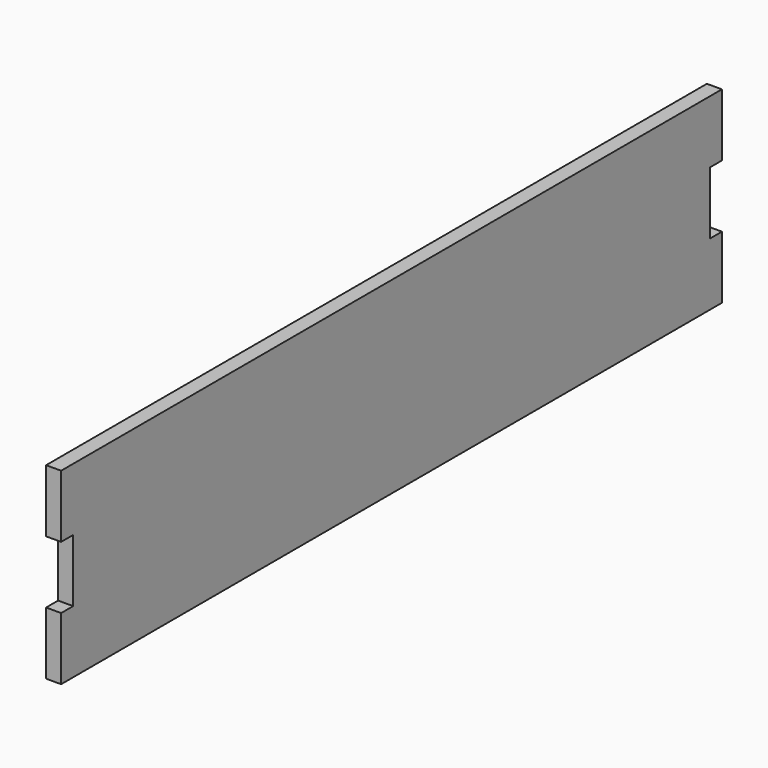
from build123d import *

# Parameters (mm, degrees)
F1_DEPTH = 6


with BuildPart() as f1:
    # F0 (on Right) → F1 (new body)
    with BuildSketch(Plane.YZ):
        Polygon((61.581665, 58.027008), (-256.018335, 58.027008), (-262.018335, 58.027008), (-262.018335, 33.027008), (-256.018335, 33.027008), (-256.018335, 8.027008), (-262.018335, 8.027008), (-262.018335, -16.972992), (-256.018335, -16.972992), (61.581665, -16.972992), (67.581665, -16.972992), (67.581665, 8.027008), (61.581665, 8.027008), (61.581665, 33.027008), (67.581665, 33.027008), (67.581665, 58.027008), align=None)
    extrude(amount=F1_DEPTH)


solid = f1.part
